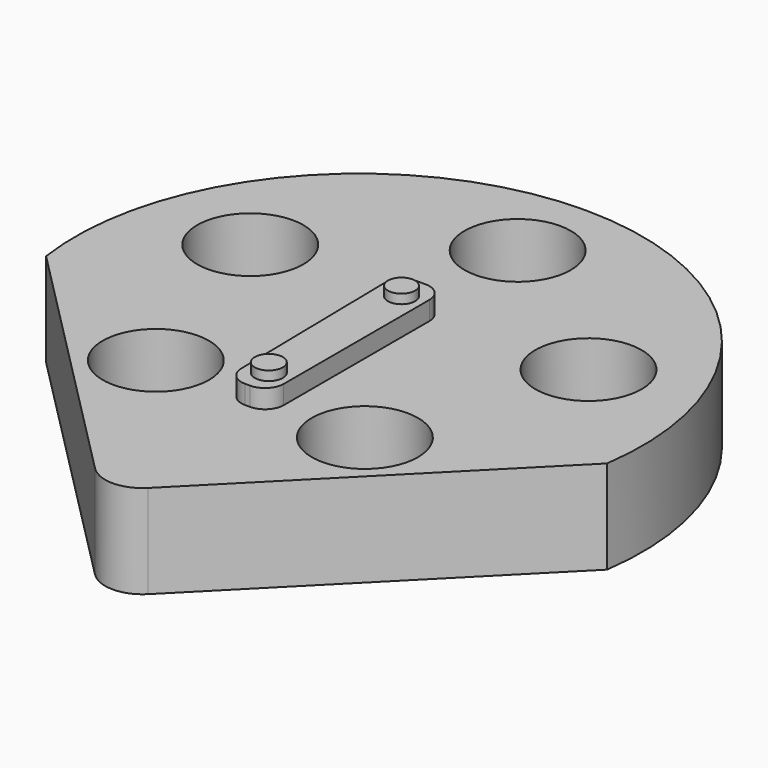
from build123d import *

# Parameters (mm, degrees)
F1_DEPTH = 25.4
F2_R     = 10.16
F3_R     = 14.427985
F4_DEPTH = 25.401
F6_DEPTH = 5.08
F7_R     = 3.702221
F7_R_2   = 3.8131
F8_DEPTH = 2.54
F9_R     = 5.08


with BuildPart() as f1:
    # F0 (on Top) → F1 (new body)
    with BuildSketch(Plane.XY):
        with BuildLine():
            Line((-0.25744, -76.898574), (75.94256, 0))
            ThreePointArc((75.94256, 0), (-0.25744, 87.97693), (-76.45744, 0))
            Line((-76.45744, 0), (-0.25744, -76.898574))
        make_face()
    extrude(amount=F1_DEPTH)

    # F2
    f2_edges = [f1.edges().sort_by_distance(p)[0] for p in [
        (-0.25744, -76.898574, 12.7),
    ]]
    fillet(f2_edges, radius=F2_R)

    # F3 (on face) → F4 (cut, through all)
    with BuildSketch(Plane.XY.offset(25.4)):
        with Locations((0, 64.553022)):
            Circle(F3_R)
        with Locations((-45.933198, 31.180601)):
            Circle(F3_R)
        with Locations((-28.388277, -22.817112)):
            Circle(F3_R)
        with Locations((28.388277, -22.817112)):
            Circle(F3_R)
        with Locations((45.933198, 31.180601)):
            Circle(F3_R)
    extrude(amount=-F4_DEPTH, mode=Mode.SUBTRACT)

    # F5 (on face) → F6 (join)
    with BuildSketch(Plane.XY.offset(25.4)):
        Polygon((5.661786, 32.575481), (-6.728922, 32.575481), (-5.72427, -27.033882), (5.661786, -27.033882), align=None)
    extrude(amount=F6_DEPTH)

    # F7 (on face) → F8 (join)
    with BuildSketch(Plane.XY.offset(30.48)):
        with Locations((0, 25.121083)):
            Circle(F7_R)
        with Locations((0, -19.945145)):
            Circle(F7_R_2)
    extrude(amount=F8_DEPTH)

    # F9
    f9_edges = [f1.edges().sort_by_distance(p)[0] for p in [
        (-5.72427, -27.033882, 27.94),
        (5.661786, -27.033882, 27.94),
        (5.661786, 32.575481, 27.94),
        (-6.728922, 32.575481, 27.94),
    ]]
    fillet(f9_edges, radius=F9_R)


solid = f1.part
